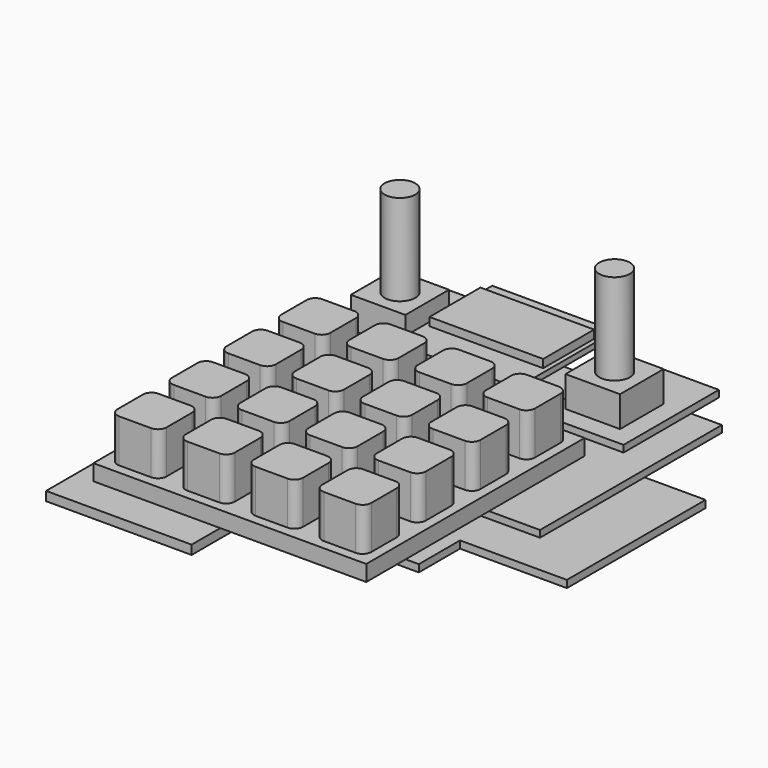
from build123d import *

# Parameters (mm, degrees)
CYLINDER001_R             = 7
CYLINDER001_DEPTH         = 1
BOX010_W                  = 21
BOX010_H                  = 13.25
BOX010_DEPTH              = 19.75
CUT_PLACEMENT_ANGLE       = 180
BOX017_W                  = 2.5
BOX017_H                  = 11
BOX017_DEPTH              = 1.5
BOX015_W                  = 32
BOX015_H                  = 24
BOX015_DEPTH              = 2
BOX001_W                  = 60
BOX001_H                  = 60
BOX001_DEPTH              = 1.5
BOX002_W                  = 10.8
BOX002_H                  = 10.8
BOX002_DEPTH              = 9.5
FILLET012_R               = 1.9
FILLET014_R               = 1.9
FILLET015_R               = 1.9
FILLET013_R               = 1.9
FILLET011_R               = 1.9
FILLET003_R               = 1.9
FILLET001_R               = 1.9
FILLET002_R               = 1.9
FILLET005_R               = 1.9
FILLET007_R               = 1.9
FILLET008_R               = 1.9
FILLET006_R               = 1.9
FILLET004_R               = 1.9
FILLET009_R               = 1.9
FILLET010_R               = 1.9
BOX004_W                  = 60
BOX004_H                  = 60
BOX004_DEPTH              = 2
FILLET_R                  = 1.9
BOX016_W                  = 25
BOX016_H                  = 14
BOX016_DEPTH              = 1.8
BOX005_W                  = 27
BOX005_H                  = 27
BOX005_DEPTH              = 1.2
CYLINDER_R                = 3.375
CYLINDER_DEPTH            = 20
BOX009_W                  = 18.63
BOX009_H                  = 26.2
BOX009_DEPTH              = 1.5
BOX008_W                  = 12
BOX008_H                  = 12
BOX008_DEPTH              = 6.75
BOX011_W                  = 21
BOX011_H                  = 51
BOX011_DEPTH              = 1.6
BOX012_W                  = 8
BOX012_H                  = 6
BOX012_DEPTH              = 3.1
CHAMFER_SIZE              = 1.5
FUSION004_PLACEMENT_ANGLE = 180
BOX013_W                  = 25.4
BOX013_H                  = 38.1
BOX013_DEPTH              = 1.6
BOX014_W                  = 6
BOX014_H                  = 15
BOX014_DEPTH              = 5.5
CYLINDER002_R             = 2.5
CYLINDER002_DEPTH         = 2.25
FUSION006_PLACEMENT_ANGLE = 180
BOX003_W                  = 70
BOX003_H                  = 50
BOX003_DEPTH              = 1.5


with BuildPart() as cylinder001:
    # Cylinder001 → Cylinder001 (new body)
    with BuildSketch(Plane(origin=(0, 1, 10.25), x_dir=(1, 0, 0), z_dir=(0, -1, 0))):
        Circle(CYLINDER001_R)
    extrude(amount=CYLINDER001_DEPTH)


with BuildPart() as obj1:
    # Box010 → Box010 (new body)
    with BuildSketch(Plane(origin=(-10.5, 0, 0), x_dir=(1, 0, 0), z_dir=(0, 0, 1))):
        with Locations((10.5, 6.625)):
            Rectangle(BOX010_W, BOX010_H)
    extrude(amount=BOX010_DEPTH)

    # Cut: cut Cylinder001
    add(cylinder001.part, mode=Mode.SUBTRACT)


with BuildPart() as obj1_1:
    # Cut placement: moved
    add(obj1.part.moved(Location((-21.75, 61.4, -12))).rotate(Axis((-21.75, 61.4, -12), (1, 0, 0)), CUT_PLACEMENT_ANGLE))


with BuildPart() as obj2:
    # Box017 → Box017 (new body)
    with BuildSketch(Plane(origin=(-16, -5.5, 0), x_dir=(1, 0, 0), z_dir=(0, 0, 1))):
        with Locations((1.25, 5.5)):
            Rectangle(BOX017_W, BOX017_H)
    extrude(amount=BOX017_DEPTH)


with BuildPart() as obj3:
    # Box015 → Box015 (new body)
    with BuildSketch(Plane(origin=(-16, -12, 0), x_dir=(1, 0, 0), z_dir=(0, 0, 1))):
        with Locations((16, 12)):
            Rectangle(BOX015_W, BOX015_H)
    extrude(amount=BOX015_DEPTH)

    # Cut001: cut obj2
    add(obj2.part, mode=Mode.SUBTRACT)


with BuildPart() as obj3_1:
    # Cut001 placement: moved
    add(obj3.part.moved(Location((-24, -15, -12.25))))


with BuildPart() as obj4:
    # Box001 → Box001 (new body)
    with BuildSketch(Plane(origin=(-27.2, -30, 0), x_dir=(1, 0, 0), z_dir=(0, 0, 1))):
        with Locations((30, 30)):
            Rectangle(BOX001_W, BOX001_H)
    extrude(amount=BOX001_DEPTH)


with BuildPart() as cube001:
    # Box002 → Box002 (new body)
    with BuildSketch(Plane(origin=(2.1, 2.1, 0), x_dir=(1, 0, 0), z_dir=(0, 0, 1))):
        with Locations((5.4, 5.4)):
            Rectangle(BOX002_W, BOX002_H)
    extrude(amount=BOX002_DEPTH)


with BuildPart() as obj5:
    # Fillet012 base: copy of Cube001
    add(cube001.part)

    # Fillet012
    fillet012_edges = [obj5.edges().sort_by_distance(p)[0] for p in [
        (2.1, 2.1, 4.75),
        (2.1, 12.9, 4.75),
        (12.9, 2.1, 4.75),
        (12.9, 12.9, 4.75),
    ]]
    fillet(fillet012_edges, radius=FILLET012_R)


with BuildPart() as obj5_1:
    # Fillet012 placement: moved
    add(obj5.part.moved(Location((-30, -30, 0))))


with BuildPart() as obj6:
    # Fillet014 base: copy of Cube001
    add(cube001.part)

    # Fillet014
    fillet014_edges = [obj6.edges().sort_by_distance(p)[0] for p in [
        (2.1, 2.1, 4.75),
        (2.1, 12.9, 4.75),
        (12.9, 2.1, 4.75),
        (12.9, 12.9, 4.75),
    ]]
    fillet(fillet014_edges, radius=FILLET014_R)


with BuildPart() as obj6_1:
    # Fillet014 placement: moved
    add(obj6.part.moved(Location((-15, -30, 0))))


with BuildPart() as obj7:
    # Fillet015 base: copy of Cube001
    add(cube001.part)

    # Fillet015
    fillet015_edges = [obj7.edges().sort_by_distance(p)[0] for p in [
        (2.1, 2.1, 4.75),
        (2.1, 12.9, 4.75),
        (12.9, 2.1, 4.75),
        (12.9, 12.9, 4.75),
    ]]
    fillet(fillet015_edges, radius=FILLET015_R)


with BuildPart() as obj7_1:
    # Fillet015 placement: moved
    add(obj7.part.moved(Location((0, -30, 0))))


with BuildPart() as obj8:
    # Fillet013 base: copy of Cube001
    add(cube001.part)

    # Fillet013
    fillet013_edges = [obj8.edges().sort_by_distance(p)[0] for p in [
        (2.1, 2.1, 4.75),
        (2.1, 12.9, 4.75),
        (12.9, 2.1, 4.75),
        (12.9, 12.9, 4.75),
    ]]
    fillet(fillet013_edges, radius=FILLET013_R)


with BuildPart() as obj8_1:
    # Fillet013 placement: moved
    add(obj8.part.moved(Location((15, -30, 0))))


with BuildPart() as obj9:
    # Fillet011 base: copy of Cube001
    add(cube001.part)

    # Fillet011
    fillet011_edges = [obj9.edges().sort_by_distance(p)[0] for p in [
        (2.1, 2.1, 4.75),
        (2.1, 12.9, 4.75),
        (12.9, 2.1, 4.75),
        (12.9, 12.9, 4.75),
    ]]
    fillet(fillet011_edges, radius=FILLET011_R)


with BuildPart() as obj9_1:
    # Fillet011 placement: moved
    add(obj9.part.moved(Location((0, -15, 0))))


with BuildPart() as obj10:
    # Fillet003 base: copy of Cube001
    add(cube001.part)

    # Fillet003
    fillet003_edges = [obj10.edges().sort_by_distance(p)[0] for p in [
        (2.1, 2.1, 4.75),
        (2.1, 12.9, 4.75),
        (12.9, 2.1, 4.75),
        (12.9, 12.9, 4.75),
    ]]
    fillet(fillet003_edges, radius=FILLET003_R)


with BuildPart() as obj10_1:
    # Fillet003 placement: moved
    add(obj10.part.moved(Location((15, 0, 0))))


with BuildPart() as obj11:
    # Fillet001 base: copy of Cube001
    add(cube001.part)

    # Fillet001
    fillet001_edges = [obj11.edges().sort_by_distance(p)[0] for p in [
        (2.1, 2.1, 4.75),
        (2.1, 12.9, 4.75),
        (12.9, 2.1, 4.75),
        (12.9, 12.9, 4.75),
    ]]
    fillet(fillet001_edges, radius=FILLET001_R)


with BuildPart() as obj11_1:
    # Fillet001 placement: moved
    add(obj11.part.moved(Location((-15, 0, 0))))


with BuildPart() as obj12:
    # Fillet002 base: copy of Cube001
    add(cube001.part)

    # Fillet002
    fillet002_edges = [obj12.edges().sort_by_distance(p)[0] for p in [
        (2.1, 2.1, 4.75),
        (2.1, 12.9, 4.75),
        (12.9, 2.1, 4.75),
        (12.9, 12.9, 4.75),
    ]]
    fillet(fillet002_edges, radius=FILLET002_R)


with BuildPart() as obj13:
    # Fillet005 base: copy of Cube001
    add(cube001.part)

    # Fillet005
    fillet005_edges = [obj13.edges().sort_by_distance(p)[0] for p in [
        (2.1, 2.1, 4.75),
        (2.1, 12.9, 4.75),
        (12.9, 2.1, 4.75),
        (12.9, 12.9, 4.75),
    ]]
    fillet(fillet005_edges, radius=FILLET005_R)


with BuildPart() as obj13_1:
    # Fillet005 placement: moved
    add(obj13.part.moved(Location((15, 15, 0))))


with BuildPart() as obj14:
    # Fillet007 base: copy of Cube001
    add(cube001.part)

    # Fillet007
    fillet007_edges = [obj14.edges().sort_by_distance(p)[0] for p in [
        (2.1, 2.1, 4.75),
        (2.1, 12.9, 4.75),
        (12.9, 2.1, 4.75),
        (12.9, 12.9, 4.75),
    ]]
    fillet(fillet007_edges, radius=FILLET007_R)


with BuildPart() as obj14_1:
    # Fillet007 placement: moved
    add(obj14.part.moved(Location((0, 15, 0))))


with BuildPart() as obj15:
    # Fillet008 base: copy of Cube001
    add(cube001.part)

    # Fillet008
    fillet008_edges = [obj15.edges().sort_by_distance(p)[0] for p in [
        (2.1, 2.1, 4.75),
        (2.1, 12.9, 4.75),
        (12.9, 2.1, 4.75),
        (12.9, 12.9, 4.75),
    ]]
    fillet(fillet008_edges, radius=FILLET008_R)


with BuildPart() as obj15_1:
    # Fillet008 placement: moved
    add(obj15.part.moved(Location((-30, -15, 0))))


with BuildPart() as obj16:
    # Fillet006 base: copy of Cube001
    add(cube001.part)

    # Fillet006
    fillet006_edges = [obj16.edges().sort_by_distance(p)[0] for p in [
        (2.1, 2.1, 4.75),
        (2.1, 12.9, 4.75),
        (12.9, 2.1, 4.75),
        (12.9, 12.9, 4.75),
    ]]
    fillet(fillet006_edges, radius=FILLET006_R)


with BuildPart() as obj16_1:
    # Fillet006 placement: moved
    add(obj16.part.moved(Location((-15, 15, 0))))


with BuildPart() as obj17:
    # Fillet004 base: copy of Cube001
    add(cube001.part)

    # Fillet004
    fillet004_edges = [obj17.edges().sort_by_distance(p)[0] for p in [
        (2.1, 2.1, 4.75),
        (2.1, 12.9, 4.75),
        (12.9, 2.1, 4.75),
        (12.9, 12.9, 4.75),
    ]]
    fillet(fillet004_edges, radius=FILLET004_R)


with BuildPart() as obj17_1:
    # Fillet004 placement: moved
    add(obj17.part.moved(Location((-30, 15, 0))))


with BuildPart() as obj18:
    # Fillet009 base: copy of Cube001
    add(cube001.part)

    # Fillet009
    fillet009_edges = [obj18.edges().sort_by_distance(p)[0] for p in [
        (2.1, 2.1, 4.75),
        (2.1, 12.9, 4.75),
        (12.9, 2.1, 4.75),
        (12.9, 12.9, 4.75),
    ]]
    fillet(fillet009_edges, radius=FILLET009_R)


with BuildPart() as obj18_1:
    # Fillet009 placement: moved
    add(obj18.part.moved(Location((15, -15, 0))))


with BuildPart() as obj19:
    # Fillet010 base: copy of Cube001
    add(cube001.part)

    # Fillet010
    fillet010_edges = [obj19.edges().sort_by_distance(p)[0] for p in [
        (2.1, 2.1, 4.75),
        (2.1, 12.9, 4.75),
        (12.9, 2.1, 4.75),
        (12.9, 12.9, 4.75),
    ]]
    fillet(fillet010_edges, radius=FILLET010_R)


with BuildPart() as obj19_1:
    # Fillet010 placement: moved
    add(obj19.part.moved(Location((-15, -15, 0))))


with BuildPart() as obj20:
    # Box004 → Box004 (new body)
    with BuildSketch(Plane(origin=(-30, -30, -2), x_dir=(1, 0, 0), z_dir=(0, 0, 1))):
        with Locations((30, 30)):
            Rectangle(BOX004_W, BOX004_H)
    extrude(amount=BOX004_DEPTH)


with BuildPart() as obj21:
    # Fillet base: copy of Cube001
    add(cube001.part)

    # Fillet
    fillet_edges = [obj21.edges().sort_by_distance(p)[0] for p in [
        (2.1, 2.1, 4.75),
        (2.1, 12.9, 4.75),
        (12.9, 2.1, 4.75),
        (12.9, 12.9, 4.75),
    ]]
    fillet(fillet_edges, radius=FILLET_R)


with BuildPart() as obj21_1:
    # Fillet placement: moved
    add(obj21.part.moved(Location((-30, 0, 0))))

    # Fusion: union obj5, obj6, obj7, obj8, obj9, obj10, obj11, obj12, obj13, obj14, obj15, obj16, obj17, obj18, obj19, obj20
    add(obj5_1.part)
    add(obj6_1.part)
    add(obj7_1.part)
    add(obj8_1.part)
    add(obj9_1.part)
    add(obj10_1.part)
    add(obj11_1.part)
    add(obj12.part)
    add(obj13_1.part)
    add(obj14_1.part)
    add(obj15_1.part)
    add(obj16_1.part)
    add(obj17_1.part)
    add(obj18_1.part)
    add(obj19_1.part)
    add(obj20.part)


with BuildPart() as obj21_2:
    # Fusion placement: moved
    add(obj21_1.part.moved(Location((2.8, 0, 3.5))))

    # Fusion003: union obj4
    add(obj4.part)


with BuildPart() as obj21_3:
    # Fusion003 placement: moved
    add(obj21_2.part.moved(Location((0, 0, -3))))


with BuildPart() as displayvisible:
    # Box016 → Box016 (new body)
    with BuildSketch(Plane(origin=(-12.5, 44, 1.2), x_dir=(1, 0, 0), z_dir=(0, 0, 1))):
        with Locations((12.5, 7)):
            Rectangle(BOX016_W, BOX016_H)
    extrude(amount=BOX016_DEPTH)


with BuildPart() as display:
    # Box005 → Box005 (new body)
    with BuildSketch(Plane(origin=(-13.5, 35.5, 0), x_dir=(1, 0, 0), z_dir=(0, 0, 1))):
        with Locations((13.5, 13.5)):
            Rectangle(BOX005_W, BOX005_H)
    extrude(amount=BOX005_DEPTH)

    # Fusion007: union DisplayVisible
    add(displayvisible.part)


with BuildPart() as display_1:
    # Fusion007 placement: moved
    add(display.part.moved(Location((0, 0, 0.5))))


with BuildPart() as cylinder:
    # Cylinder → Cylinder (new body)
    with BuildSketch(Plane.XY.offset(8.25)):
        Circle(CYLINDER_R)
    extrude(amount=CYLINDER_DEPTH)


with BuildPart() as encoderpcb003:
    # Box009 → Box009 (new body)
    with BuildSketch(Plane(origin=(-8.5, -10.2, 0), x_dir=(1, 0, 0), z_dir=(0, 0, 1))):
        with Locations((9.315, 13.1)):
            Rectangle(BOX009_W, BOX009_H)
    extrude(amount=BOX009_DEPTH)


with BuildPart() as cube002:
    # Box008 → Box008 (new body)
    with BuildSketch(Plane(origin=(-6, -6, 1.5), x_dir=(1, 0, 0), z_dir=(0, 0, 1))):
        with Locations((6, 6)):
            Rectangle(BOX008_W, BOX008_H)
    extrude(amount=BOX008_DEPTH)


with BuildPart() as obj22:
    # Fusion001 base: copy of Cube002
    add(cube002.part)

    # Fusion001: union Cylinder, EncoderPCB003
    add(cylinder.part)
    add(encoderpcb003.part)


with BuildPart() as obj22_1:
    # Fusion001 placement: moved
    add(obj22.part.moved(Location((25, 48, -4.75))))


with BuildPart() as picopcb:
    # Box011 → Box011 (new body)
    with BuildSketch(Plane(origin=(-10.5, -25.5, 0), x_dir=(1, 0, 0), z_dir=(0, 0, 1))):
        with Locations((10.5, 25.5)):
            Rectangle(BOX011_W, BOX011_H)
    extrude(amount=BOX011_DEPTH)


with BuildPart() as pico:
    # Box012 → Box012 (new body)
    with BuildSketch(Plane(origin=(-4, -26.8, 1.6), x_dir=(1, 0, 0), z_dir=(0, 0, 1))):
        with Locations((4, 3)):
            Rectangle(BOX012_W, BOX012_H)
    extrude(amount=BOX012_DEPTH)

    # Chamfer
    chamfer_edges = [pico.edges().sort_by_distance(p)[0] for p in [
        (-4, -23.8, 1.6),
        (4, -23.8, 1.6),
    ]]
    chamfer(chamfer_edges, length=CHAMFER_SIZE)

    # Fusion004: union PicoPCB
    add(picopcb.part)


with BuildPart() as pico_1:
    # Fusion004 placement: moved
    add(pico.part.moved(Location((0, 37.83, -24))).rotate(Axis((0, 37.83, -24), (1, 0, 0)), FUSION004_PLACEMENT_ANGLE))


with BuildPart() as obj23:
    # Box013 → Box013 (new body)
    with BuildSketch(Plane(origin=(-12.7, -19.05, 0), x_dir=(1, 0, 0), z_dir=(0, 0, 1))):
        with Locations((12.7, 19.05)):
            Rectangle(BOX013_W, BOX013_H)
    extrude(amount=BOX013_DEPTH)


with BuildPart() as cube005:
    # Box014 → Box014 (new body)
    with BuildSketch(Plane(origin=(-3, 0, 0), x_dir=(1, 0, 0), z_dir=(0, 0, 1))):
        with Locations((3, 7.5)):
            Rectangle(BOX014_W, BOX014_H)
    extrude(amount=BOX014_DEPTH)


with BuildPart() as obj24:
    # Cylinder002 → Cylinder002 (new body)
    with BuildSketch(Plane(origin=(0, 0, 2.75), x_dir=(1, 0, 0), z_dir=(0, -1, 0))):
        Circle(CYLINDER002_R)
    extrude(amount=CYLINDER002_DEPTH)

    # Fusion005: union Cube005
    add(cube005.part)


with BuildPart() as obj24_1:
    # Fusion005 placement: moved
    add(obj24.part.moved(Location((0, -19, 1.6))))

    # Fusion006: union obj23
    add(obj23.part)


with BuildPart() as obj24_2:
    # Fusion006 placement: moved
    add(obj24_1.part.moved(Location((21.3, 42.7, -24))).rotate(Axis((21.3, 42.7, -24), (1, 0, 0)), FUSION006_PLACEMENT_ANGLE))


with BuildPart() as obj25:
    # Fusion002 base: copy of Cube002
    add(cube002.part)

    # Fusion002: union Cylinder, EncoderPCB003
    add(cylinder.part)
    add(encoderpcb003.part)


with BuildPart() as obj25_1:
    # Fusion002 placement: moved
    add(obj25.part.moved(Location((-22.2, 48, -4.75))))


with BuildPart() as internals:
    # Box003 → Box003 (new body)
    with BuildSketch(Plane(origin=(-35, 15, -12), x_dir=(1, 0, 0), z_dir=(0, 0, 1))):
        with Locations((35, 25)):
            Rectangle(BOX003_W, BOX003_H)
    extrude(amount=BOX003_DEPTH)

    # Fusion008: union obj1, obj3, obj21, Display, obj22, Pico, obj24, obj25
    add(obj1_1.part)
    add(obj3_1.part)
    add(obj21_3.part)
    add(display_1.part)
    add(obj22_1.part)
    add(pico_1.part)
    add(obj24_2.part)
    add(obj25_1.part)


solid = internals.part
